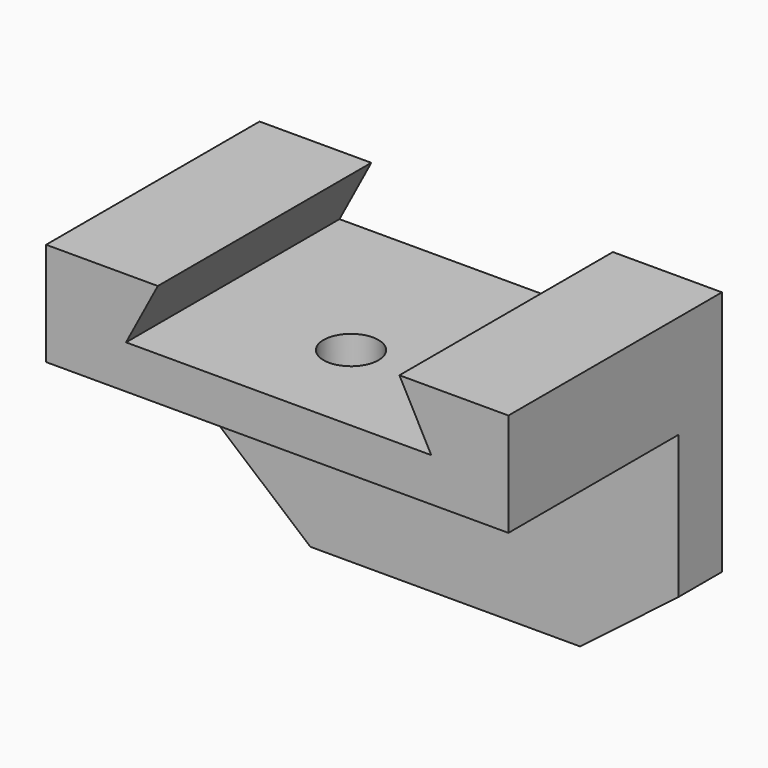
from build123d import *

# Parameters (mm, degrees)
F0_W     = 118.3868944645
F0_H     = 82.3358744383
F1_DEPTH = 68.326
F2_W     = 118.3868944645
F2_H     = 54.3707673127
F3_DEPTH = 55.88
F5_DEPTH = 25.4
F7_DEPTH = 87.122
F8_R     = 7.0278301123
F9_DEPTH = 25.4


with BuildPart() as f1:
    # F0 (on Front) → F1 (new body)
    with BuildSketch(Plane.XZ):
        with Locations((1.5118196607, 2.325873822)):
            Rectangle(F0_W, F0_H)
    extrude(amount=F1_DEPTH)

    # F2 (on face) → F3 (cut)
    with BuildSketch(Plane(origin=(0, 0, -38.8420633972), x_dir=(1, 0, 0), z_dir=(0, 0, -1))):
        with Locations((1.5118196607, 41.1406163436)):
            Rectangle(F2_W, F2_H)
    extrude(amount=-F3_DEPTH, mode=Mode.SUBTRACT)

    # F4 (on face) → F5 (cut)
    with BuildSketch(Plane.XZ.offset(13.9552326873)):
        Polygon((60.7052668929, -19.5373259485), (35.5858430266, -38.8420633972), (60.7052668929, -38.8420633972), align=None)
        Polygon((-57.6816275716, -38.8420633972), (-33.5003801701, -38.8420633972), (-57.6816275716, -18.3743909001), align=None)
    extrude(amount=-F5_DEPTH, mode=Mode.SUBTRACT)

    # F6 (on face) → F7 (cut)
    with BuildSketch(Plane.XZ.offset(68.326)):
        Polygon((40.9353487194, 28.1430520117), (32.7947959304, 43.4938110411), (-29.0733985603, 43.4938110411), (-37.2139513493, 28.1430520117), align=None)
    extrude(amount=-F7_DEPTH, mode=Mode.SUBTRACT)

    # F8 (on face) → F9 (cut)
    with BuildSketch(Plane(origin=(0, 0, 17.0379366028), x_dir=(1, 0, 0), z_dir=(0, 0, -1))):
        with Locations((0, 42.8269580007)):
            Circle(F8_R)
    extrude(amount=-F9_DEPTH, mode=Mode.SUBTRACT)


solid = f1.part
